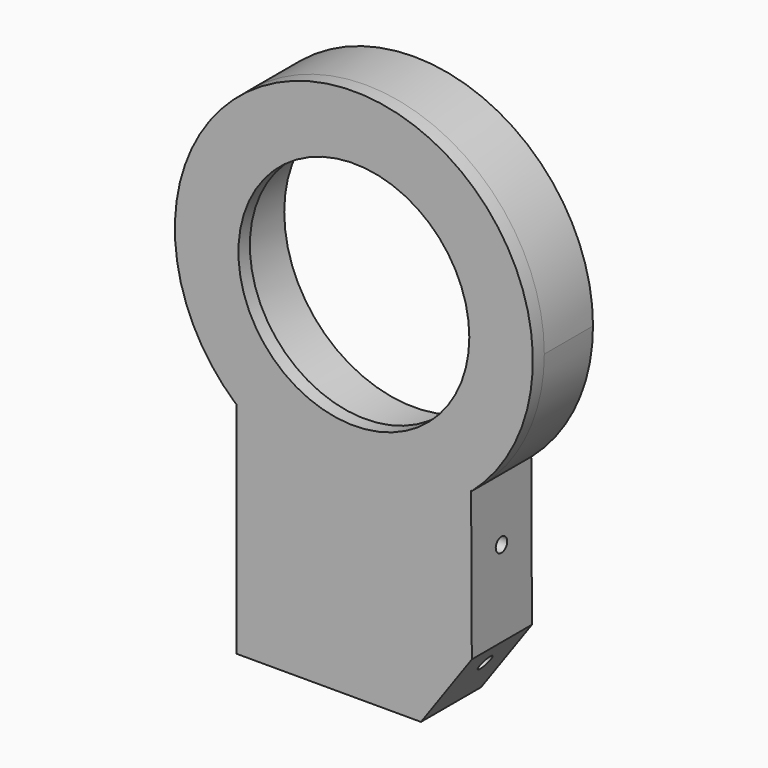
from build123d import *

# Parameters (mm, degrees)
F0_R      = 36.25
F1_DEPTH  = 17
F2_R      = 32.25
F3_DEPTH  = 4
F4_R      = 1.5
F5_DEPTH  = 15
F8_DEPTH  = 25
F11_DEPTH = 25
F13_DEPTH = 12
F15_DEPTH = 25


with BuildPart() as f1:
    # F0 (on Front) → F1 (new body)
    with BuildSketch(Plane.XZ):
        with BuildLine():
            ThreePointArc((33, -37.56328), (45.552168, -20.615528), (50, 0))
            ThreePointArc((50, 0), (0, 50), (-50, 0))
            ThreePointArc((-50, 0), (-45.552168, -20.615528), (-33, -37.56328))
            Line((-33, -37.56328), (-33, -79))
            Line((-33, -79), (-33, -99))
            Line((-33, -99), (-18.995849, -99))
            Line((-18.995849, -99), (0, -99))
            Line((0, -99), (18.995849, -99))
            Line((18.995849, -99), (33, -79))
            Line((33, -79), (33, -37.56328))
        make_face()
        Circle(F0_R, mode=Mode.SUBTRACT)
    extrude(amount=F1_DEPTH)

    # F2 (on face) → F3 (join)
    with BuildSketch(Plane.XZ.offset(17)):
        with BuildLine():
            Line((33, -79), (33, -37.56328))
            ThreePointArc((33, -37.56328), (0, 50), (-33, -37.56328))
            Line((-33, -37.56328), (-33, -99))
            Line((-33, -99), (18.995849, -99))
            Line((18.995849, -99), (33, -79))
        make_face()
        Circle(F2_R, mode=Mode.SUBTRACT)
    extrude(amount=F3_DEPTH)

    # F4 (on face) → F5 (cut)
    with BuildSketch(Plane(origin=(0, 0, 0), x_dir=(-1, 0, 0), z_dir=(0, 1, 0))):
        with Locations((-18, -42.60355)):
            Circle(F4_R)
        with Locations((18, -42.60355)):
            Circle(F4_R)
        with Locations((18, -67.60355)):
            Circle(F4_R)
        with Locations((-18, -67.60355)):
            Circle(F4_R)
    extrude(amount=-F5_DEPTH, mode=Mode.SUBTRACT)

    # F7 (on offset) → F8 (cut)
    with BuildSketch(Plane.YZ.offset(21)):
        with BuildLine():
            ThreePointArc((-12.5, -85.60355), (-10.5, -87.60355), (-8.5, -85.60355))
            Line((-8.5, -85.60355), (-12.5, -85.60355))
        make_face()
        with BuildLine():
            Line((-12.5, -85.60355), (-8.5, -85.60355))
            ThreePointArc((-8.5, -85.60355), (-10.5, -83.60355), (-12.5, -85.60355))
        make_face()
        with BuildLine():
            ThreePointArc((-12.5, -55.10355), (-10.5, -57.10355), (-8.5, -55.10355))
            Line((-8.5, -55.10355), (-12.5, -55.10355))
        make_face()
        with BuildLine():
            Line((-12.5, -55.10355), (-8.5, -55.10355))
            ThreePointArc((-8.5, -55.10355), (-10.5, -53.10355), (-12.5, -55.10355))
        make_face()
    extrude(amount=F8_DEPTH, mode=Mode.SUBTRACT)

    # F10 (on offset) → F11 (cut)
    with BuildSketch(Plane.YZ.offset(-21)):
        with BuildLine():
            ThreePointArc((-12.5, -85.60355), (-10.5, -87.60355), (-8.5, -85.60355))
            Line((-8.5, -85.60355), (-12.5, -85.60355))
        make_face()
        with BuildLine():
            Line((-12.5, -85.60355), (-8.5, -85.60355))
            ThreePointArc((-8.5, -85.60355), (-10.5, -83.60355), (-12.5, -85.60355))
        make_face()
        with BuildLine():
            ThreePointArc((-12.5, -55.10355), (-10.5, -57.10355), (-8.5, -55.10355))
            Line((-8.5, -55.10355), (-12.5, -55.10355))
        make_face()
        with BuildLine():
            Line((-12.5, -55.10355), (-8.5, -55.10355))
            ThreePointArc((-8.5, -55.10355), (-10.5, -53.10355), (-12.5, -55.10355))
        make_face()
    extrude(amount=-F11_DEPTH, mode=Mode.SUBTRACT)

    # F12 (on face) → F13 (cut)
    with BuildSketch(Plane(origin=(0, 0, 0), x_dir=(-1, 0, 0), z_dir=(0, 1, 0))):
        with BuildLine():
            ThreePointArc((0, -87.25), (-2, -89.25), (0, -91.25))
            Line((0, -91.25), (0, -87.25))
        make_face()
        with BuildLine():
            Line((0, -87.25), (0, -91.25))
            ThreePointArc((0, -91.25), (1.414214, -90.664214), (2, -89.25))
            ThreePointArc((2, -89.25), (1.414214, -87.835786), (0, -87.25))
        make_face()
    extrude(amount=-F13_DEPTH, mode=Mode.SUBTRACT)

    # F14 (on face) → F15 (cut)
    with BuildSketch(Plane.XZ.offset(21)):
        Polygon((38.998518, -37.56328), (33, -37.56328), (32.75, -37.56328), (32.948155, -79.000248), (18.745849, -99), (-32.75, -103.90038), (-32.75, -37.56328), (-33, -37.56328), (-37.546977, -48.766561), (-37.546977, -109.624594), (30.626951, -103.313722), (38.998518, -80.774888), align=None)
    extrude(amount=-F15_DEPTH, mode=Mode.SUBTRACT)


solid = f1.part
